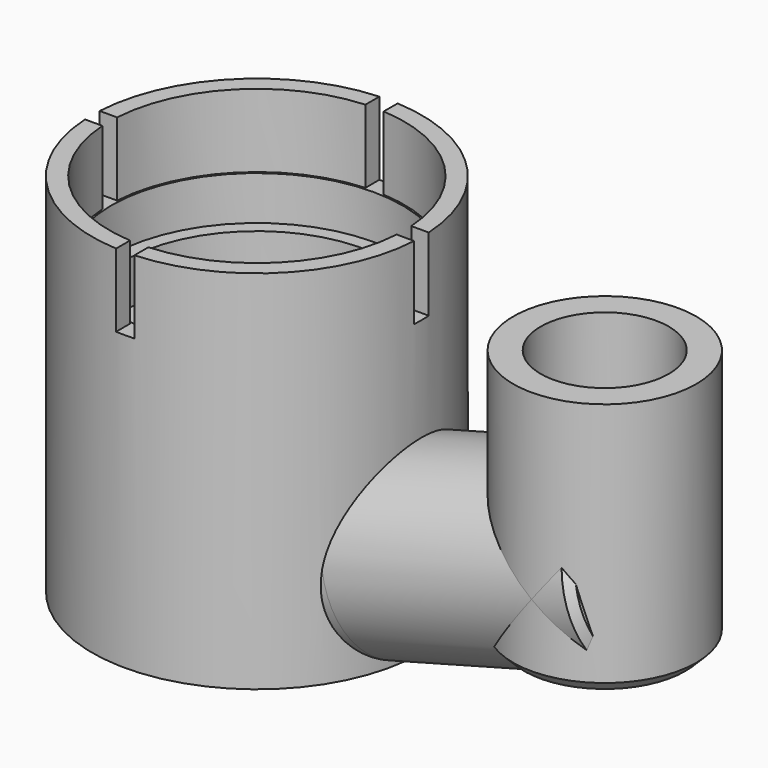
from build123d import *

# Parameters (mm, degrees)
SKETCH_R             = 45
PAD_DEPTH            = 100
SKETCH001_R          = 40.25
POCKET_DEPTH         = 20
SKETCH002_R          = 39.75
POCKET001_DEPTH      = 12
SKETCH003_R          = 36
POCKET002_DEPTH      = 12
SKETCH004_R          = 31
POCKET003_DEPTH      = 56.001
SKETCH005_W          = 5
SKETCH005_H          = 20
POCKET004_DEPTH      = 90.001
SKETCH006_W          = 5
SKETCH006_H          = 20
POCKET005_DEPTH      = 90.001
SKETCH007_R          = 25
PAD001_DEPTH         = 70
PAD001_DEPTH_BACK    = 3
SKETCH009_R          = 25
PAD002_DEPTH         = 70
SKETCH012_R          = 1.5
POCKET008_DEPTH      = 10
SKETCH013_R          = 17.5
POCKET009_DEPTH      = 70
POCKET009_DEPTH_BACK = 20
SKETCH014_R          = 17.5
POCKET010_DEPTH      = 55
CHAMFER_SIZE         = 2
CHAMFER001_SIZE      = 2
CHAMFER002_SIZE      = 3
CHAMFER003_SIZE      = 3


with BuildPart() as part:
    # Sketch → Pad (new body)
    with BuildSketch(Plane.XY):
        Circle(SKETCH_R)
    extrude(amount=PAD_DEPTH)

    # Sketch001 (on Face3 of Pad) → Pocket (cut)
    with BuildSketch(Plane.XY.offset(100)):
        Circle(SKETCH001_R)
    extrude(amount=-POCKET_DEPTH, mode=Mode.SUBTRACT)

    # Sketch002 (on Face5 of Pocket) → Pocket001 (cut)
    with BuildSketch(Plane.XY.offset(80)):
        Circle(SKETCH002_R)
    extrude(amount=-POCKET001_DEPTH, mode=Mode.SUBTRACT)

    # Sketch003 (on Face7 of Pocket001) → Pocket002 (cut)
    with BuildSketch(Plane.XY.offset(68)):
        Circle(SKETCH003_R)
    extrude(amount=-POCKET002_DEPTH, mode=Mode.SUBTRACT)

    # Sketch004 (on Face9 of Pocket002) → Pocket003 (cut, through all)
    with BuildSketch(Plane.XY.offset(56)):
        Circle(SKETCH004_R)
    extrude(amount=-POCKET003_DEPTH, mode=Mode.SUBTRACT)

    # Sketch005 (on DatumPlane) → Pocket004 (cut, through all)
    with BuildSketch(Plane(origin=(45, 0, 100), x_dir=(0, 1, 0), z_dir=(1, 0, 0))):
        with Locations((0, -10)):
            Rectangle(SKETCH005_W, SKETCH005_H)
    extrude(amount=-POCKET004_DEPTH, mode=Mode.SUBTRACT)

    # Sketch006 (on DatumPlane) → Pocket005 (cut, through all)
    with BuildSketch(Plane(origin=(45, -45, 100), x_dir=(1, 0, 0), z_dir=(0, -1, 0))):
        with Locations((-45, -10)):
            Rectangle(SKETCH006_W, SKETCH006_H)
    extrude(amount=-POCKET005_DEPTH, mode=Mode.SUBTRACT)

    # Sketch007 (on DatumPlane) → Pad001 (join, two sides)
    with BuildSketch(Plane(origin=(45, 0, 0), x_dir=(0, 1, 0), z_dir=(0.965926, 0, 0.258819))) as pad001_sk:
        with Locations((0, 25)):
            Circle(SKETCH007_R)
    extrude(amount=PAD001_DEPTH)
    extrude(pad001_sk.sketch, amount=-PAD001_DEPTH_BACK)

    # Sketch009 (on DatumPlane) → Pad002 (join)
    with BuildSketch(Plane(origin=(0, 0, 19), x_dir=(1, 0, 0), z_dir=(0, 0, -1))):
        with Locations((95, 0)):
            Circle(SKETCH009_R)
    extrude(amount=-PAD002_DEPTH)

    # Sketch012 → Pocket008 (cut)
    with BuildSketch(Plane(origin=(0, 0, 0), x_dir=(1, 0, 0), z_dir=(0, 0, -1))):
        with Locations((0, 41.5)):
            Circle(SKETCH012_R)
        with Locations((5.984302, 41.066265)):
            Circle(SKETCH012_R)
        with Locations((11.843515, 39.774127)):
            Circle(SKETCH012_R)
        with Locations((17.455165, 37.650594)):
            Circle(SKETCH012_R)
        with Locations((22.701951, 34.740055)):
            Circle(SKETCH012_R)
        with Locations((27.474201, 31.103349)):
            Circle(SKETCH012_R)
        with Locations((31.67216, 26.816493)):
            Circle(SKETCH012_R)
        with Locations((35.20808, 21.969094)):
            Circle(SKETCH012_R)
        with Locations((38.008049, 16.662478)):
            Circle(SKETCH012_R)
        with Locations((40.013541, 11.007569)):
            Circle(SKETCH012_R)
        with Locations((41.182633, 5.122569)):
            Circle(SKETCH012_R)
        with Locations((41.49089, -0.869507)):
            Circle(SKETCH012_R)
        with Locations((40.931867, -6.843408)):
            Circle(SKETCH012_R)
        with Locations((39.51725, -12.674262)):
            Circle(SKETCH012_R)
        with Locations((37.276609, -18.240188)):
            Circle(SKETCH012_R)
        with Locations((34.256778, -23.42484)):
            Circle(SKETCH012_R)
        with Locations((30.520882, -28.119846)):
            Circle(SKETCH012_R)
        with Locations((26.147011, -32.227066)):
            Circle(SKETCH012_R)
        with Locations((21.226593, -35.660647)):
            Circle(SKETCH012_R)
        with Locations((15.862477, -38.348818)):
            Circle(SKETCH012_R)
        with Locations((10.166789, -40.235387)):
            Circle(SKETCH012_R)
        with Locations((4.258587, -41.280921)):
            Circle(SKETCH012_R)
        with Locations((-1.738633, -41.463564)):
            Circle(SKETCH012_R)
        with Locations((-7.69951, -40.779499)):
            Circle(SKETCH012_R)
        with Locations((-13.499445, -39.243025)):
            Circle(SKETCH012_R)
        with Locations((2, 34.94281)):
            Circle(SKETCH012_R)
        with Locations((6.958671, 34.301267)):
            Circle(SKETCH012_R)
        with Locations((12.714998, 32.608723)):
            Circle(SKETCH012_R)
        with Locations((17.231743, 30.464192)):
            Circle(SKETCH012_R)
        with Locations((22.181755, 27.073414)):
            Circle(SKETCH012_R)
        with Locations((25.813162, 23.636426)):
            Circle(SKETCH012_R)
        with Locations((28.91777, 19.717063)):
            Circle(SKETCH012_R)
        with Locations((31.43222, 15.39531)):
            Circle(SKETCH012_R)
        with Locations((33.305195, 10.759368)):
            Circle(SKETCH012_R)
        with Locations((34.498472, 5.903846)):
            Circle(SKETCH012_R)
        with Locations((34.9877, 0.927838)):
            Circle(SKETCH012_R)
        with Locations((34.762892, -4.067106)):
            Circle(SKETCH012_R)
        with Locations((33.828638, -8.979047)):
            Circle(SKETCH012_R)
        with Locations((32.204003, -13.707743)):
            Circle(SKETCH012_R)
        with Locations((29.922143, -18.156688)):
            Circle(SKETCH012_R)
        with Locations((27.029628, -22.235089)):
            Circle(SKETCH012_R)
        with Locations((23.585488, -25.859713)):
            Circle(SKETCH012_R)
        with Locations((19.660011, -28.956588)):
            Circle(SKETCH012_R)
        with Locations((14.425411, -31.888987)):
            Circle(SKETCH012_R)
        with Locations((9.73428, -33.619099)):
            Circle(SKETCH012_R)
        with Locations((4.84449, -34.663106)):
            Circle(SKETCH012_R)
        with Locations((-0.144168, -34.999703)):
            Circle(SKETCH012_R)
        with Locations((-5.129883, -34.62202)):
            Circle(SKETCH012_R)
        with Locations((-10.010906, -33.537766)):
            Circle(SKETCH012_R)
        with Locations((-19.017203, -36.886258)):
            Circle(SKETCH012_R)
        with Locations((-24.137446, -33.758461)):
            Circle(SKETCH012_R)
        with Locations((-28.753147, -29.925016)):
            Circle(SKETCH012_R)
        with Locations((-32.767824, -25.466051)):
            Circle(SKETCH012_R)
        with Locations((-36.097558, -20.474772)):
            Circle(SKETCH012_R)
        with Locations((-38.67275, -15.055511)):
            Circle(SKETCH012_R)
        with Locations((-40.439569, -9.321546)):
            Circle(SKETCH012_R)
        with Locations((-41.361085, -3.392734)):
            Circle(SKETCH012_R)
        with Locations((-41.418034, 2.606995)):
            Circle(SKETCH012_R)
        with Locations((-33.245323, 24.839454)):
            Circle(SKETCH012_R)
        with Locations((-40.609227, 8.552231)):
            Circle(SKETCH012_R)
        with Locations((-38.95157, 14.318701)):
            Circle(SKETCH012_R)
        with Locations((-36.479712, 19.785868)):
            Circle(SKETCH012_R)
        with Locations((-29.316011, 29.373823)):
            Circle(SKETCH012_R)
        with Locations((-24.773909, 33.294195)):
            Circle(SKETCH012_R)
        with Locations((-14.687626, -31.769067)):
            Circle(SKETCH012_R)
        with Locations((-19.064598, -29.35202)):
            Circle(SKETCH012_R)
        with Locations((-23.052497, -26.335953)):
            Circle(SKETCH012_R)
        with Locations((-26.569936, -22.782416)):
            Circle(SKETCH012_R)
        with Locations((-29.545132, -18.763933)):
            Circle(SKETCH012_R)
        with Locations((-31.917366, -14.362512)):
            Circle(SKETCH012_R)
        with Locations((-33.638225, -9.667979)):
            Circle(SKETCH012_R)
        with Locations((-34.795217, -3.780588)):
            Circle(SKETCH012_R)
        with Locations((-34.978869, 1.216038)):
            Circle(SKETCH012_R)
        with Locations((-34.448665, 6.187847)):
            Circle(SKETCH012_R)
        with Locations((-33.215428, 11.033373)):
            Circle(SKETCH012_R)
        with Locations((-31.304325, 15.653729)):
            Circle(SKETCH012_R)
        with Locations((-28.754358, 19.954621)):
            Circle(SKETCH012_R)
        with Locations((-19.713962, 36.518622)):
            Circle(SKETCH012_R)
        with Locations((-14.241935, 38.979704)):
            Circle(SKETCH012_R)
        with Locations((-8.472211, 40.625997)):
            Circle(SKETCH012_R)
        with Locations((-4.023654, 41.304482)):
            Circle(SKETCH012_R)
        with Locations((-25.969847, 23.464165)):
            Circle(SKETCH012_R)
        with Locations((-22.476861, 26.828915)):
            Circle(SKETCH012_R)
        with Locations((-18.32219, 29.821089)):
            Circle(SKETCH012_R)
        with Locations((-14.097292, 32.035392)):
            Circle(SKETCH012_R)
        with Locations((-9.51413, 33.682063)):
            Circle(SKETCH012_R)
        with Locations((-4.120127, 34.756648)):
            Circle(SKETCH012_R)
    extrude(amount=-POCKET008_DEPTH, mode=Mode.SUBTRACT)

    # Sketch013 (on Face184 of Pocket008) → Pocket009 (cut, two sides)
    with BuildSketch(Plane(origin=(39.087794, 0, 10.473543), x_dir=(0, -1, 0), z_dir=(-0.965926, 0, -0.258819))) as pocket009_sk:
        with Locations((0, 13.353143)):
            Circle(SKETCH013_R)
    extrude(amount=-POCKET009_DEPTH, mode=Mode.SUBTRACT)
    extrude(pocket009_sk.sketch, amount=POCKET009_DEPTH_BACK, mode=Mode.SUBTRACT)

    # Sketch014 (on Face121 of Pocket009) → Pocket010 (cut)
    with BuildSketch(Plane.XY.offset(89)):
        with Locations((95, 0)):
            Circle(SKETCH014_R)
    extrude(amount=-POCKET010_DEPTH, mode=Mode.SUBTRACT)

    # Chamfer
    chamfer_edges = [part.edges().sort_by_distance(p)[0] for p in [
        (107.057892, -24.749566, 38.856025),
    ]]
    chamfer(chamfer_edges, length=CHAMFER_SIZE)

    # Chamfer001
    chamfer001_edges = [part.edges().sort_by_distance(p)[0] for p in [
        (108.19599, 23.70997, 34.608586),
        (104.979645, 24.591665, 46.612148),
    ]]
    chamfer(chamfer001_edges, length=CHAMFER001_SIZE)

    # Chamfer002
    chamfer002_edges = [part.edges().sort_by_distance(p)[0] for p in [
        (105.862261, 22.516911, 19),
        (105.862261, -22.516911, 19),
    ]]
    chamfer(chamfer002_edges, length=CHAMFER002_SIZE)

    # Chamfer003
    chamfer003_edges = [part.edges().sort_by_distance(p)[0] for p in [
        (105.253232, 0, 34),
    ]]
    chamfer(chamfer003_edges, length=CHAMFER003_SIZE)


solid = part.part
